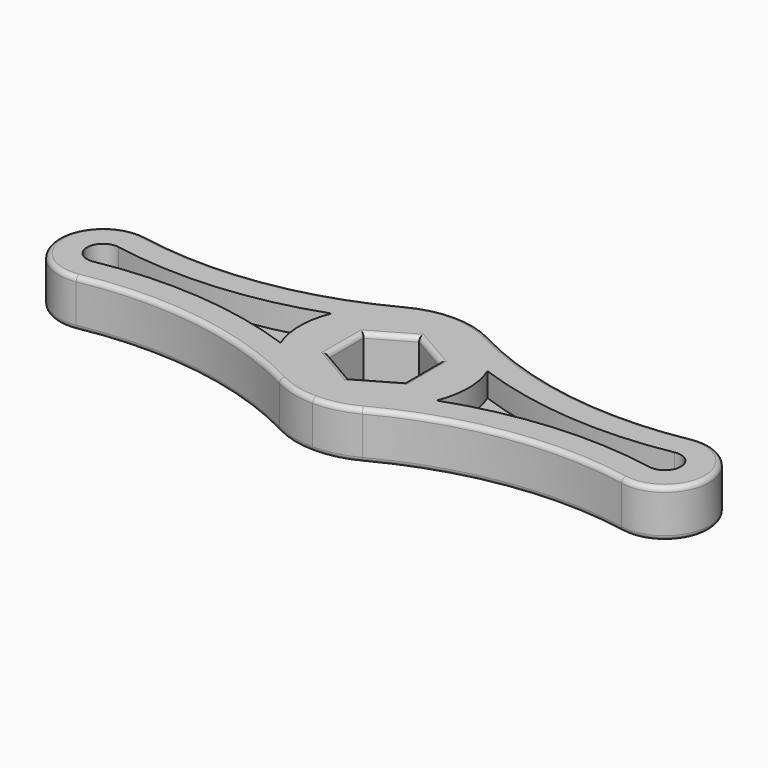
from build123d import *

# Parameters (mm, degrees)
F1_DEPTH = 5.08
F2_R     = 0.508
F3_R     = 0.508
F5_DEPTH = 2.54


with BuildPart() as f1:
    # F0 (on Top) → F1 (new body)
    with BuildSketch(Plane.XY):
        with BuildLine():
            ThreePointArc((-29.131383, -4.682618), (-16.468234, -4.474505), (-4.436489, -8.428712))
            ThreePointArc((-4.436489, -8.428712), (-2.284966, -9.246867), (0, -9.525))
            ThreePointArc((0, -9.525), (2.284966, -9.246867), (4.436489, -8.428712))
            ThreePointArc((4.436489, -8.428712), (16.468234, -4.474505), (29.131383, -4.682618))
            ThreePointArc((29.131383, -4.682618), (34.7625, 0), (29.131383, 4.682618))
            ThreePointArc((29.131383, 4.682618), (16.468234, 4.474505), (4.436489, 8.428712))
            ThreePointArc((4.436489, 8.428712), (2.284966, 9.246867), (0, 9.525))
            ThreePointArc((0, 9.525), (-2.284966, 9.246867), (-4.436489, 8.428712))
            ThreePointArc((-4.436489, 8.428712), (-16.468234, 4.474505), (-29.131383, 4.682618))
            ThreePointArc((-29.131383, 4.682618), (-34.7625, 0), (-29.131383, -4.682618))
        make_face()
        Polygon((-4.05, 2.338269), (0, 4.676537), (4.05, 2.338269), (4.05, -2.338269), (0, -4.676537), (-4.05, -2.338269), align=None, mode=Mode.SUBTRACT)
    extrude(amount=F1_DEPTH)

    # F2
    f2_edges = [f1.edges().sort_by_distance(p)[0] for p in [
        (-34.7625, 0, 5.08),
        (-16.468234, -4.474505, 5.08),
        (0, -9.525, 5.08),
        (16.468234, -4.474505, 5.08),
        (34.7625, 0, 5.08),
        (16.468234, 4.474505, 5.08),
        (0, 9.525, 5.08),
        (-16.468234, 4.474505, 5.08),
        (-2.025, 3.507403, 5.08),
        (2.025, 3.507403, 5.08),
        (4.05, 0, 5.08),
        (2.025, -3.507403, 5.08),
        (-2.025, -3.507403, 5.08),
        (-4.05, 0, 5.08),
    ]]
    fillet(f2_edges, radius=F2_R)

    # F3
    f3_edges = [f1.edges().sort_by_distance(p)[0] for p in [
        (-34.7625, 0, 0),
        (-16.468234, -4.474505, 0),
        (0, -9.525, 0),
        (16.468234, -4.474505, 0),
        (34.7625, 0, 0),
        (16.468234, 4.474505, 0),
        (0, 9.525, 0),
        (-16.468234, 4.474505, 0),
        (-2.025, 3.507403, 0),
        (2.025, 3.507403, 0),
        (4.05, 0, 0),
        (2.025, -3.507403, 0),
        (-2.025, -3.507403, 0),
        (-4.05, 0, 0),
    ]]
    fillet(f3_edges, radius=F3_R)

    # F4 (on face) → F5 (cut)
    with BuildSketch(Plane.XY.offset(5.08)):
        with BuildLine():
            ThreePointArc((29.687298, -1.685742), (31.7145, 0), (29.687298, 1.685742))
            ThreePointArc((29.687298, 1.685742), (18.897854, 1.126865), (8.334847, 3.395633))
            ThreePointArc((8.334847, 3.395633), (9, 0), (8.334847, -3.395633))
            ThreePointArc((8.334847, -3.395633), (18.897854, -1.126865), (29.687298, -1.685742))
        make_face()
        with BuildLine():
            ThreePointArc((-8.334847, -3.395633), (-9, 0), (-8.334847, 3.395633))
            ThreePointArc((-8.334847, 3.395633), (-18.897854, 1.126865), (-29.687298, 1.685742))
            ThreePointArc((-29.687298, 1.685742), (-31.7145, 0), (-29.687298, -1.685742))
            ThreePointArc((-29.687298, -1.685742), (-18.897854, -1.126865), (-8.334847, -3.395633))
        make_face()
    extrude(amount=-F5_DEPTH, mode=Mode.SUBTRACT)


solid = f1.part
